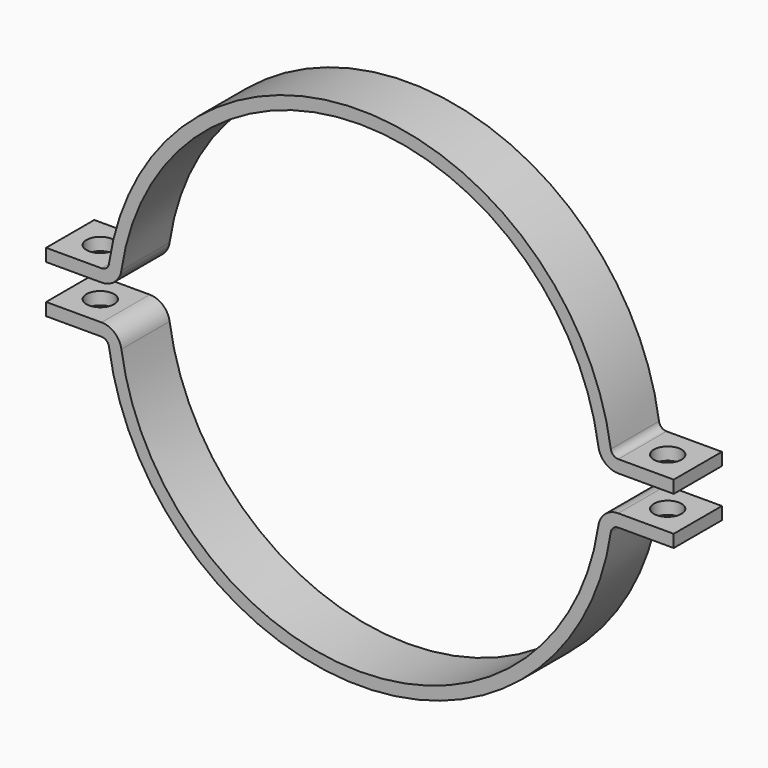
from build123d import *

# Parameters (mm, degrees)
F1_DEPTH = 38.1
F2_R     = 9.525
F3_R     = 25.4
F4_R     = 17.4625
F5_DEPTH = 76.2


with BuildPart() as f1:
    # F0 (on Front) → F1 (new body, symmetric)
    with BuildSketch(Plane.XZ):
        with BuildLine():
            ThreePointArc((-303.988634, 22.225), (0, 304.8), (303.988634, 22.225))
            Line((303.988634, 22.225), (396.875, 22.225))
            Line((396.875, 22.225), (396.875, 38.1))
            Line((396.875, 38.1), (318.403589, 38.1))
            ThreePointArc((318.403589, 38.1), (0, 320.675), (-318.403589, 38.1))
            Line((-318.403589, 38.1), (-396.875, 38.1))
            Line((-396.875, 38.1), (-396.875, 22.225))
            Line((-396.875, 22.225), (-303.988634, 22.225))
        make_face()
        with BuildLine():
            Line((-396.875, -22.225), (-396.875, -38.1))
            Line((-396.875, -38.1), (-318.403589, -38.1))
            ThreePointArc((-318.403589, -38.1), (0, -320.675), (318.403589, -38.1))
            Line((318.403589, -38.1), (396.875, -38.1))
            Line((396.875, -38.1), (396.875, -22.225))
            Line((396.875, -22.225), (303.988634, -22.225))
            ThreePointArc((303.988634, -22.225), (0, -304.8), (-303.988634, -22.225))
            Line((-303.988634, -22.225), (-396.875, -22.225))
        make_face()
    extrude(amount=F1_DEPTH, both=True)

    # F2
    f2_edges = [f1.edges().sort_by_distance(p)[0] for p in [
        (-318.403589, 0, 38.1),
        (-318.403589, 0, -38.1),
        (318.403589, 0, 38.1),
        (318.403589, 0, -38.1),
    ]]
    fillet(f2_edges, radius=F2_R)

    # F3
    f3_edges = [f1.edges().sort_by_distance(p)[0] for p in [
        (-303.988634, 0, 22.225),
        (-303.988634, 0, -22.225),
        (303.988634, 0, 22.225),
        (303.988634, 0, -22.225),
    ]]
    fillet(f3_edges, radius=F3_R)

    # F4 (on face) → F5 (cut, symmetric)
    with BuildSketch(Plane.XY.offset(38.1)):
        with Locations((-358.775, 0)):
            Circle(F4_R)
        with Locations((358.775, 0)):
            Circle(F4_R)
    extrude(amount=F5_DEPTH, both=True, mode=Mode.SUBTRACT)


solid = f1.part
